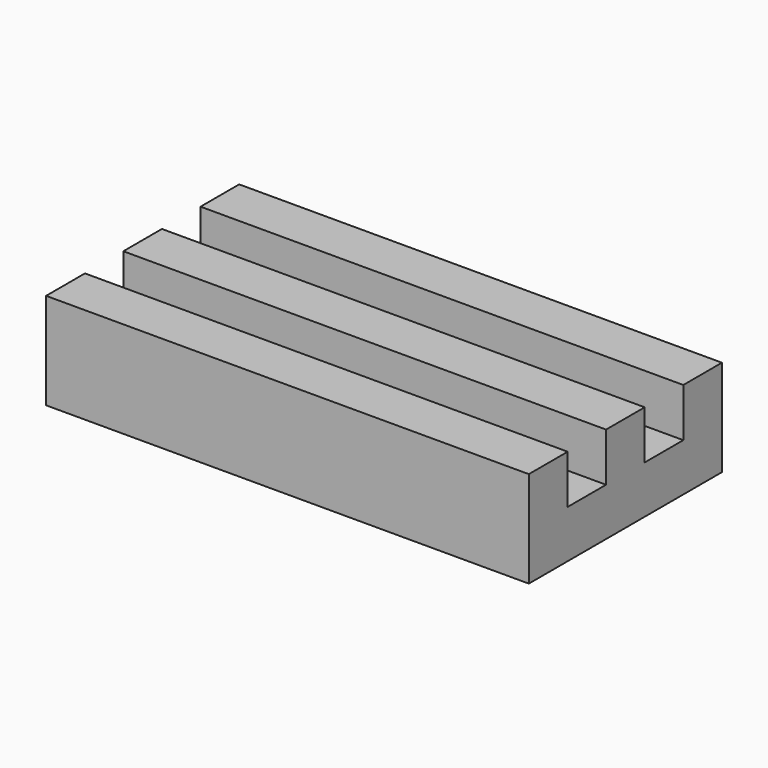
from build123d import *

# Parameters (mm, degrees)
F0_W     = 1.6002
F0_H     = 1.57988
F0_H_2   = 1.59004
F0_W_2   = 12.7
F0_H_3   = 1.6002
F1_DEPTH = 3.175
F2_T     = -1.6002
F3_DEPTH = 25.4
F4_W     = 1.6002
F4_H     = 1.59004
F4_H_2   = 1.57988
F5_DEPTH = 1.6002


with BuildPart() as f1:
    # F0 (on Top) → F1 (new body)
    with BuildSketch(Plane.XY):
        with Locations((8.509001, -9.207606)):
            Rectangle(F0_W, F0_H)
        with Locations((-5.791199, -4.442566)):
            Rectangle(F0_W, F0_H_2)
        with Locations((8.509001, -4.442566)):
            Rectangle(F0_W, F0_H_2)
        with Locations((1.358901, -4.442566)):
            Rectangle(F0_W_2, F0_H_2)
        with Locations((1.358901, -7.622646)):
            Rectangle(F0_W_2, F0_H_2)
        with Locations((-5.791199, -10.797646)):
            Rectangle(F0_W, F0_H_3)
        with Locations((-5.791199, -6.032606)):
            Rectangle(F0_W, F0_H_2)
        with Locations((-5.791199, -7.622646)):
            Rectangle(F0_W, F0_H_2)
        with Locations((-5.791199, -9.207606)):
            Rectangle(F0_W, F0_H)
        with Locations((8.509001, -6.032606)):
            Rectangle(F0_W, F0_H_2)
        with Locations((8.509001, -7.622646)):
            Rectangle(F0_W, F0_H_2)
        with Locations((8.509001, -10.797646)):
            Rectangle(F0_W, F0_H_3)
        with Locations((1.358901, -6.032606)):
            Rectangle(F0_W_2, F0_H_2)
        with Locations((1.358901, -9.207606)):
            Rectangle(F0_W_2, F0_H)
        with Locations((1.358901, -10.797646)):
            Rectangle(F0_W_2, F0_H_3)
    extrude(amount=F1_DEPTH)

    # F2
    f2_openings = [f1.faces().sort_by_distance(p)[0] for p in [
        (1.358901, -7.622646, 0),
    ]]
    offset(amount=F2_T, openings=f2_openings)

    # F0 (on Top) → F3 (cut)
    with BuildSketch(Plane.XY):
        with Locations((1.358901, -6.032606)):
            Rectangle(F0_W_2, F0_H_2)
        with Locations((1.358901, -9.207606)):
            Rectangle(F0_W_2, F0_H)
    extrude(amount=F3_DEPTH, mode=Mode.SUBTRACT)

    # F4 (on face) → F5 (cut)
    with BuildSketch(Plane.XY.offset(3.175)):
        with Locations((-5.791199, -6.032606)):
            Rectangle(F4_W, F4_H)
        with Locations((-5.791199, -9.207606)):
            Rectangle(F4_W, F4_H_2)
        with Locations((8.509001, -6.032606)):
            Rectangle(F4_W, F4_H)
        with Locations((8.509001, -9.207606)):
            Rectangle(F4_W, F4_H_2)
    extrude(amount=-F5_DEPTH, mode=Mode.SUBTRACT)


solid = f1.part
